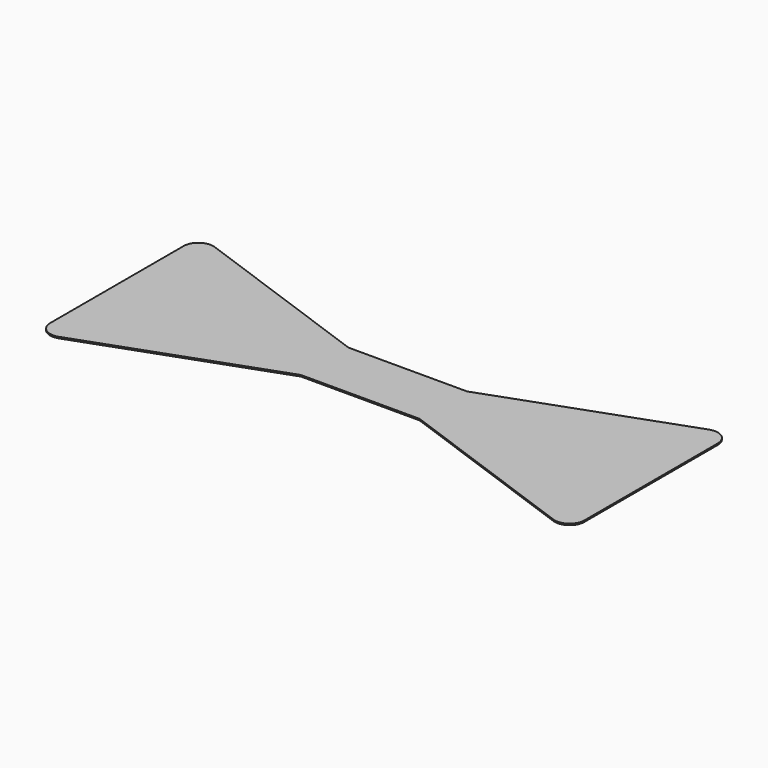
from build123d import *

# Parameters (mm, degrees)
F1_DEPTH = 0.3048


with BuildPart() as f1:
    # F0 (on Top) → F1 (new body)
    with BuildSketch(Plane.XY):
        Polygon((-12.7, 0), (0, 0), (12.7, 0), (12.7, 6.35), (-12.7, 6.35), align=None)
        Polygon((12.7, 0), (0, 0), (-12.7, 0), (-12.7, -6.35), (12.7, -6.35), align=None)
        with BuildLine():
            Line((12.7, 6.35), (12.7, 0))
            Line((12.7, 0), (57.15, 0))
            Line((57.15, 0), (57.15, 17.834526))
            ThreePointArc((57.15, 17.834526), (55.800667, 20.432134), (52.899566, 20.821844))
            Line((52.899566, 20.821844), (12.7, 6.35))
        make_face()
        with BuildLine():
            Line((57.15, 0), (12.7, 0))
            Line((12.7, 0), (12.7, -6.35))
            Line((12.7, -6.35), (52.899566, -20.821844))
            ThreePointArc((52.899566, -20.821844), (55.800667, -20.432134), (57.15, -17.834526))
            Line((57.15, -17.834526), (57.15, 0))
        make_face()
        with BuildLine():
            Line((-12.7, -6.35), (-12.7, 0))
            Line((-12.7, 0), (-57.15, 0))
            Line((-57.15, 0), (-57.15, -17.834526))
            ThreePointArc((-57.15, -17.834526), (-55.800667, -20.432134), (-52.899566, -20.821844))
            Line((-52.899566, -20.821844), (-12.7, -6.35))
        make_face()
        with BuildLine():
            Line((-57.15, 0), (-12.7, 0))
            Line((-12.7, 0), (-12.7, 6.35))
            Line((-12.7, 6.35), (-52.899566, 20.821844))
            ThreePointArc((-52.899566, 20.821844), (-55.800667, 20.432134), (-57.15, 17.834526))
            Line((-57.15, 17.834526), (-57.15, 0))
        make_face()
    extrude(amount=F1_DEPTH)


solid = f1.part
